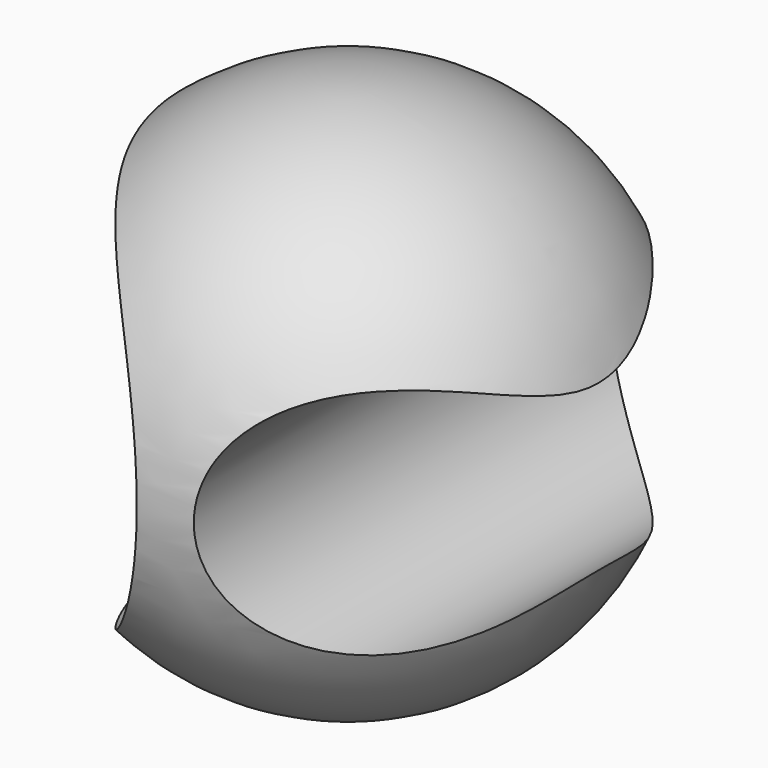
from build123d import *

# Parameters (mm, degrees)
F2_R     = 11
F3_DEPTH = 25
F4_R     = 20
F5_DEPTH = 25


with BuildPart() as f1:
    # F0 (on Front) → F1 (revolve)
    with BuildSketch(Plane.XZ):
        with BuildLine():
            Line((0, 25), (0, -25))
            ThreePointArc((0, -25), (25, 0), (0, 25))
        make_face()
    revolve(axis=Axis((0, 0, 0), (0, 0, -1)))

    # F2 (on Front) → F3 (cut, symmetric)
    with BuildSketch(Plane.XZ):
        with Locations((16, 0)):
            Circle(F2_R)
    extrude(amount=F3_DEPTH, both=True, mode=Mode.SUBTRACT)

    # F4 (on Front) → F5 (cut, symmetric)
    with BuildSketch(Plane.XZ):
        with Locations((-20, 0)):
            Circle(F4_R)
    extrude(amount=F5_DEPTH, both=True, mode=Mode.SUBTRACT)


solid = f1.part
